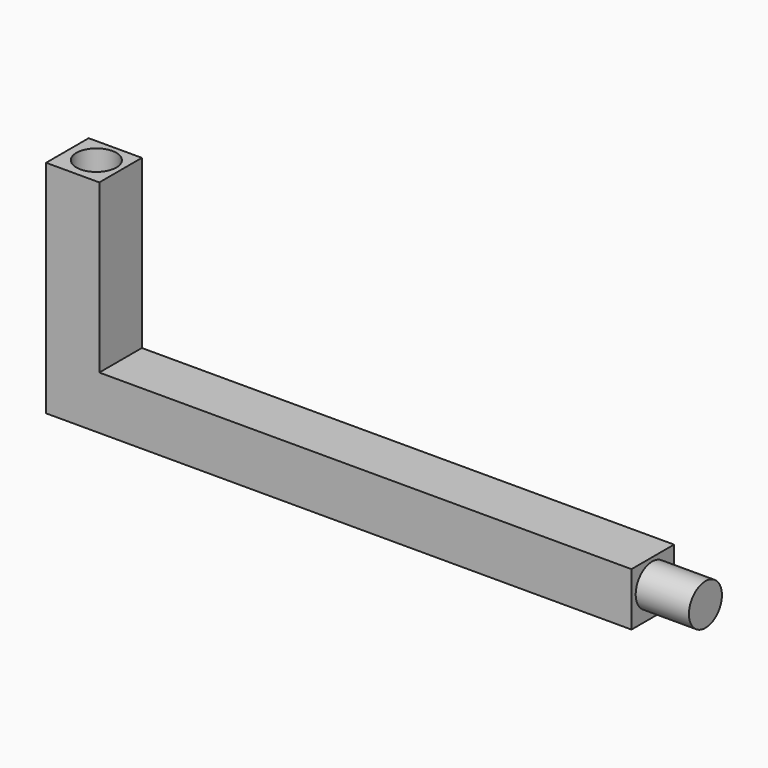
from build123d import *

# Parameters (mm, degrees)
F1_DEPTH = 8
F2_R     = 3.1
F3_DEPTH = 8
F4_R     = 3
F5_DEPTH = 16


with BuildPart() as f1:
    # F0 (on Front) → F1 (new body)
    with BuildSketch(Plane.XZ):
        Polygon((-80, -10.675645), (-80, 14.487543), (-88, 14.487543), (-88, -18.675645), (0, -18.675645), (0, -10.675645), align=None)
    extrude(amount=F1_DEPTH)

    # F2 (on Right) → F3 (join)
    with BuildSketch(Plane.YZ):
        with Locations((-4.106534, -14.342085)):
            Circle(F2_R)
    extrude(amount=F3_DEPTH)

    # F4 (on Top) → F5 (cut)
    with BuildSketch(Plane.XY):
        with Locations((-83.8, -3.8)):
            Circle(F4_R)
    extrude(amount=F5_DEPTH, mode=Mode.SUBTRACT)


solid = f1.part
